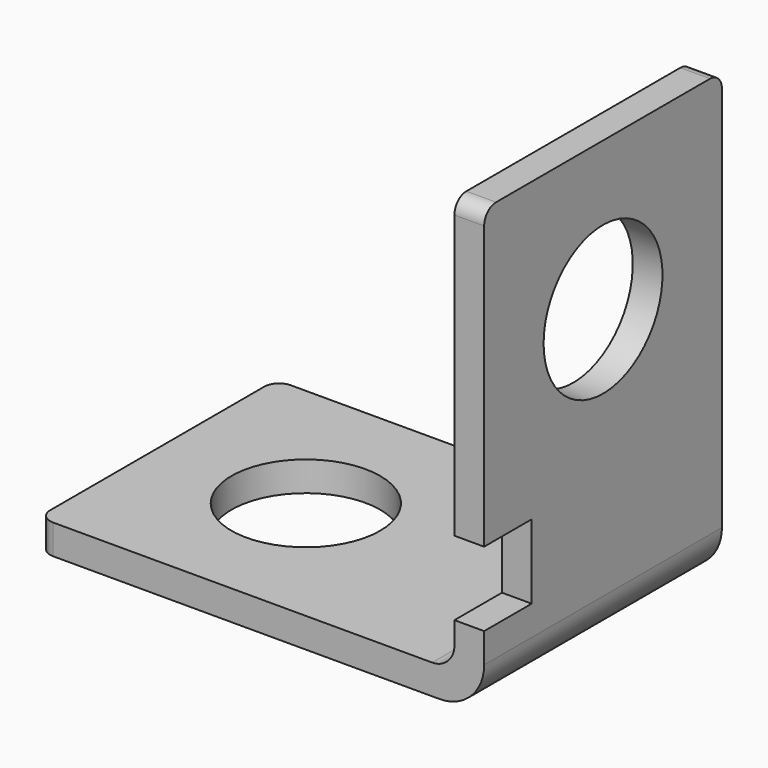
from build123d import *

# Parameters (mm, degrees)
F1_DEPTH = 20
F2_R     = 1
F3_R     = 5
F3_W     = 5
F3_H     = 5
F4_DEPTH = 2.001
F5_R     = 5
F6_DEPTH = 2.001


with BuildPart() as f1:
    # F0 (on Front) → F1 (new body)
    with BuildSketch(Plane.XZ):
        with BuildLine():
            Line((0, 2), (0, 0))
            Line((0, 0), (27, 0))
            ThreePointArc((27, 0), (29.12132, 0.87868), (30, 3))
            Line((30, 3), (30, 30))
            Line((30, 30), (28, 30))
            Line((28, 30), (28, 3.5))
            ThreePointArc((28, 3.5), (27.56066, 2.43934), (26.5, 2))
            Line((26.5, 2), (0, 2))
        make_face()
    extrude(amount=F1_DEPTH)

    # F2
    f2_edges = [f1.edges().sort_by_distance(p)[0] for p in [
        (29, -20, 30),
        (29, 0, 30),
        (0, -20, 1),
        (0, 0, 1),
    ]]
    fillet(f2_edges, radius=F2_R)

    # F3 (on face) → F4 (cut, through all)
    with BuildSketch(Plane(origin=(28, 0, 0), x_dir=(0, -1, 0), z_dir=(-1, 0, 0))):
        with Locations((10, 20)):
            Circle(F3_R)
        with Locations((18.5, 7.5)):
            Rectangle(F3_W, F3_H)
    extrude(amount=-F4_DEPTH, mode=Mode.SUBTRACT)

    # F5 (on face) → F6 (cut, through all)
    with BuildSketch(Plane.XY.offset(2)):
        with Locations((10, -10)):
            Circle(F5_R)
    extrude(amount=-F6_DEPTH, mode=Mode.SUBTRACT)


solid = f1.part
